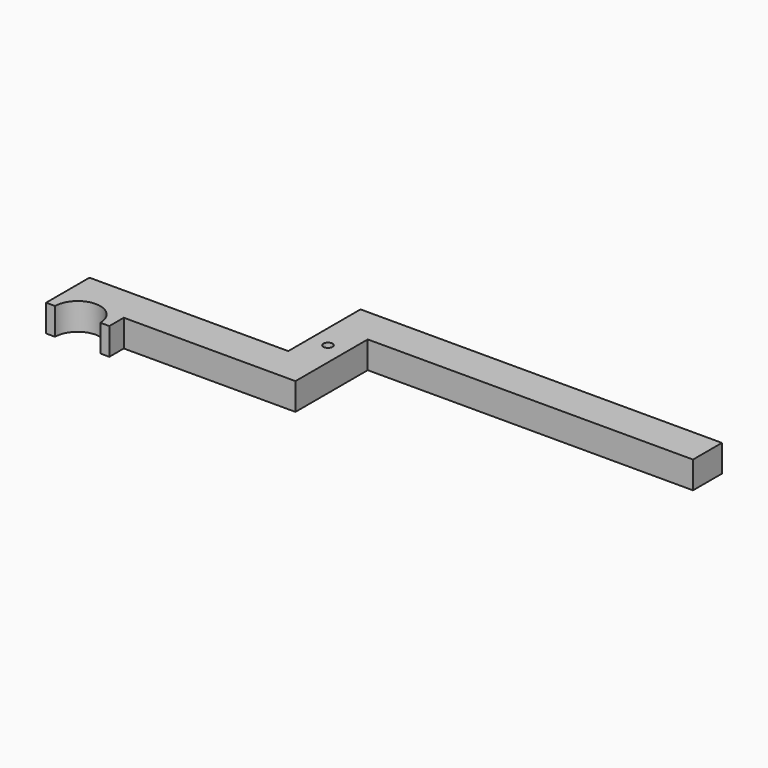
from build123d import *

# Parameters (mm, degrees)
F0_R     = 3.175
F1_DEPTH = 19.05
F2_W     = 38.1
F2_H     = 19.05
F3_DEPTH = 6.35
F4_W     = 12.7
F4_H     = 19.05
F5_DEPTH = 6.35


with BuildPart() as f1:
    # F0 (on Top) → F1 (new body)
    with BuildSketch(Plane.XY):
        with BuildLine():
            Line((0, 50.8), (0, 0))
            Line((0, 0), (0, -12.7))
            Line((0, -12.7), (-133.35, -12.7))
            Line((-133.35, -12.7), (-133.35, -50.8))
            ThreePointArc((-133.35, -50.8), (-117.475, -34.925), (-101.6, -50.8))
            Line((-101.6, -50.8), (-101.6, -38.1))
            Line((-101.6, -38.1), (25.4, -38.1))
            Line((25.4, -38.1), (25.4, 0))
            Line((25.4, 0), (25.4, 25.4))
            Line((25.4, 25.4), (254, 25.4))
            Line((254, 25.4), (254, 50.8))
            Line((254, 50.8), (0, 50.8))
        make_face()
        with Locations((12.7, 6.35)):
            Circle(F0_R, mode=Mode.SUBTRACT)
    extrude(amount=F1_DEPTH)

    # F2 (on face) → F3 (join)
    with BuildSketch(Plane(origin=(-133.35, 0, 0), x_dir=(0, -1, 0), z_dir=(-1, 0, 0))):
        with Locations((31.75, 9.525)):
            Rectangle(F2_W, F2_H)
    extrude(amount=F3_DEPTH)

    # F4 (on face) → F5 (join)
    with BuildSketch(Plane.YZ.offset(-101.6)):
        with Locations((-44.45, 9.525)):
            Rectangle(F4_W, F4_H)
    extrude(amount=F5_DEPTH)


solid = f1.part
